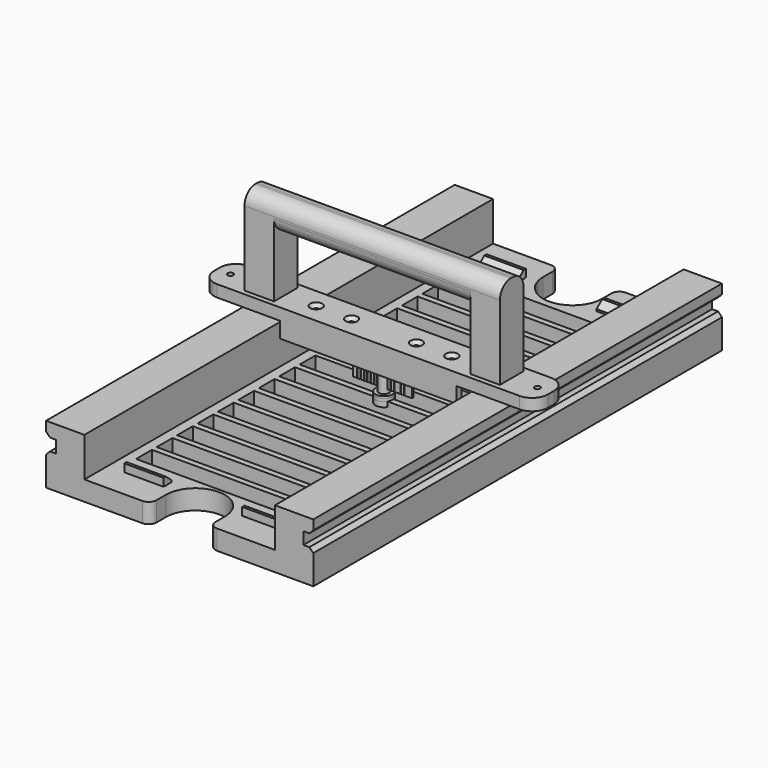
from build123d import *

# Parameters (mm, degrees)
SKETCH_W             = 87
SKETCH_H             = 10.1
SKETCH_H_2           = 9.75
SKETCH_H_3           = 10
PAD_DEPTH            = 10
PAD001_DEPTH         = 130
CHAMFER_SIZE         = 2
PAD003_DEPTH         = 20
FILLET002_R          = 4
PAD002_DEPTH         = 10
FILLET001_R          = 8
SKETCH005_R          = 1.435
POCKET001_DEPTH      = 0.001
POCKET001_DEPTH_BACK = 29.501
SKETCH008_W          = 90
SKETCH008_H          = 3
PAD005_DEPTH         = 8
HOLE_D               = 2.7
HOLE_DEPTH           = 25
HOLE_CSINK_D         = 6.1
HOLE_CSINK_ANGLE     = 90
HOLE001_D            = 2.7
HOLE001_DEPTH        = 25
HOLE001_CSINK_D      = 6.1
HOLE001_CSINK_ANGLE  = 90
SKETCH006_R          = 4.3
SKETCH006_R_2        = 1.5
PAD004_DEPTH         = 2.5
PAD006_DEPTH         = 7.5
FILLET_R             = 7
SKETCH011_R          = 1.45
POCKET002_DEPTH      = 50
SKETCH014_W          = 30
SKETCH014_H          = 12
SKETCH014_R          = 1.35
PAD007_DEPTH         = 8
PAD008_DEPTH         = 1


with BuildPart() as jig:
    # Sketch → Pad (new body)
    with BuildSketch(Plane.XY):
        with BuildLine():
            Line((-68, 130), (-68, -130))
            Line((-68, -130), (-15, -130))
            Line((-15, -130), (-15, -120))
            ThreePointArc((15, -120), (0, -105), (-15, -120))
            Line((15, -130), (15, -120))
            Line((15, -130), (68, -130))
            Line((68, -130), (68, 130))
            Line((68, 130), (15, 130))
            Line((15, 130), (15, 120))
            ThreePointArc((-15, 120), (0, 105), (15, 120))
            Line((-15, 130), (-15, 120))
            Line((-15, 130), (-68, 130))
        make_face()
        with Locations((0, -98.3)):
            Rectangle(SKETCH_W, SKETCH_H, mode=Mode.SUBTRACT)
        with Locations((0, 96.625)):
            Rectangle(SKETCH_W, SKETCH_H_2, mode=Mode.SUBTRACT)
        with Locations((0, 83.75)):
            Rectangle(SKETCH_W, SKETCH_H_3, mode=Mode.SUBTRACT)
        with Locations((0, 70.75)):
            Rectangle(SKETCH_W, SKETCH_H_3, mode=Mode.SUBTRACT)
        with Locations((0, 57.75)):
            Rectangle(SKETCH_W, SKETCH_H_3, mode=Mode.SUBTRACT)
        with Locations((0, 44.75)):
            Rectangle(SKETCH_W, SKETCH_H_3, mode=Mode.SUBTRACT)
        with Locations((0, 31.75)):
            Rectangle(SKETCH_W, SKETCH_H_3, mode=Mode.SUBTRACT)
        with Locations((0, 18.75)):
            Rectangle(SKETCH_W, SKETCH_H_3, mode=Mode.SUBTRACT)
        with Locations((0, 5.75)):
            Rectangle(SKETCH_W, SKETCH_H_3, mode=Mode.SUBTRACT)
        with Locations((0, -7.25)):
            Rectangle(SKETCH_W, SKETCH_H_3, mode=Mode.SUBTRACT)
        with Locations((0, -20.25)):
            Rectangle(SKETCH_W, SKETCH_H_3, mode=Mode.SUBTRACT)
        with Locations((0, -33.25)):
            Rectangle(SKETCH_W, SKETCH_H_3, mode=Mode.SUBTRACT)
        with Locations((0, -46.25)):
            Rectangle(SKETCH_W, SKETCH_H_3, mode=Mode.SUBTRACT)
        with Locations((0, -59.25)):
            Rectangle(SKETCH_W, SKETCH_H_3, mode=Mode.SUBTRACT)
        with Locations((0, -72.25)):
            Rectangle(SKETCH_W, SKETCH_H_3, mode=Mode.SUBTRACT)
        with Locations((0, -85.25)):
            Rectangle(SKETCH_W, SKETCH_H_3, mode=Mode.SUBTRACT)
    extrude(amount=-PAD_DEPTH)

    # Sketch001 → Pad001 (join, symmetric)
    with BuildSketch(Plane.XZ):
        Polygon((-68, 0), (-48.5, 0), (-48.5, 20), (-68, 20), (-68, 13.1), (-63, 13.1), (-63, 6.9), (-68, 6.9), align=None)
    pad001 = extrude(amount=PAD001_DEPTH, both=True)

    # Mirrored: Pad001 across Sketch001 V_Axis
    add(pad001.mirror(Plane(origin=(0, 0, 0), x_dir=(0, -1, 0), z_dir=(1, 0, 0))))

    # Chamfer
    chamfer_edges = [jig.edges().sort_by_distance(p)[0] for p in [
        (-68, 0, 13.1),
        (-68, 0, 6.9),
        (68, 0, 6.9),
        (68, 0, 13.1),
    ]]
    chamfer(chamfer_edges, length=CHAMFER_SIZE)

    # Sketch003 (on DatumPlane) → Pad003 (join)
    with BuildSketch(Plane.YZ.offset(-20)):
        Polygon((-115.25, 0), (-115.25, 4), (-113.825261, 4), (-110.25, 1), (-110.25, 0), align=None)
        Polygon((115.25, 0), (115.25, 4), (113.825261, 4), (110.25, 1), (110.25, 0), align=None)
    pad003 = extrude(amount=-PAD003_DEPTH)

    # Mirrored001: Pad003 across YZ
    add(pad003.mirror(Plane.YZ))

    # Fillet002
    fillet002_edges = [jig.edges().sort_by_distance(p)[0] for p in [
        (-15, -130, -5),
        (15, -130, -5),
        (-15, 130, -5),
        (15, 130, -5),
    ]]
    fillet(fillet002_edges, radius=FILLET002_R)


with BuildPart() as handle_sheet:
    # Sketch002 → Pad002 (new body, symmetric)
    with BuildSketch(Plane.XZ):
        Polygon((-85, 23.5), (85, 23.5), (85, 29.5), (65, 29.5), (50, 29.5), (-50, 29.5), (-65, 29.5), (-85, 29.5), align=None)
    extrude(amount=PAD002_DEPTH, both=True)

    # Fillet001
    fillet001_edges = [handle_sheet.edges().sort_by_distance(p)[0] for p in [
        (-85, -10, 26.5),
        (85, -10, 26.5),
        (85, 10, 26.5),
        (-85, 10, 26.5),
    ]]
    fillet(fillet001_edges, radius=FILLET001_R)

    # Sketch005 → Pocket001 (cut, two sides)
    with BuildSketch(Plane.XY) as pocket001_sk:
        with Locations((78.09, 0)):
            Circle(SKETCH005_R)
        with Locations((-78.09, 0)):
            Circle(SKETCH005_R)
    extrude(amount=-POCKET001_DEPTH, mode=Mode.SUBTRACT)
    extrude(pocket001_sk.sketch, amount=POCKET001_DEPTH_BACK, mode=Mode.SUBTRACT)

    # Sketch008 (on DatumPlane) → Pad005 (join)
    with BuildSketch(Plane.XY.offset(23.5)):
        with Locations((0, 8.5)):
            Rectangle(SKETCH008_W, SKETCH008_H)
        with Locations((0, -8.5)):
            Rectangle(SKETCH008_W, SKETCH008_H)
    extrude(amount=-PAD005_DEPTH)

    # Hole
    with Locations(Plane(origin=(0, 0, 23.5), x_dir=(1, 0, 0), z_dir=(0, 0, -1))):
        with Locations((-57.5, 0), (57.5, 0)):
            CounterSinkHole(HOLE_D / 2, HOLE_CSINK_D / 2, depth=HOLE_DEPTH, counter_sink_angle=HOLE_CSINK_ANGLE)

    # Hole001
    with Locations(Plane.XY.offset(29.5)):
        with Locations((34.5, 0), (16.5, 0), (-34.5, 0), (-16.5, 0)):
            CounterSinkHole(HOLE001_D / 2, HOLE001_CSINK_D / 2, depth=HOLE001_DEPTH, counter_sink_angle=HOLE001_CSINK_ANGLE)


with BuildPart() as spacer:
    # Sketch006 → Pad004 (new body, symmetric)
    with BuildSketch(Plane.XY):
        Circle(SKETCH006_R)
        Circle(SKETCH006_R_2, mode=Mode.SUBTRACT)
    extrude(amount=PAD004_DEPTH, both=True)


with BuildPart() as body:
    # Sketch007 → Revolution (revolve)
    with BuildSketch(Plane.XZ):
        Polygon((1.5, 0), (4.3, 0), (4.3, 1.5), (2.55, 1.5), (2.55, 12.56), (1.5, 12.56), align=None)
    revolve(axis=Axis((0, 0, 0), (0, 0, 1)))


with BuildPart() as handle:
    # Sketch010 → Pad006 (new body, symmetric)
    with BuildSketch(Plane.XZ):
        Polygon((-65, 74.5), (65, 74.5), (65, 29.5), (50, 29.5), (50, 59.5), (-50, 59.5), (-50, 29.5), (-65, 29.5), align=None)
    extrude(amount=PAD006_DEPTH, both=True)

    # Fillet
    fillet_edges = [handle.edges().sort_by_distance(p)[0] for p in [
        (0, 7.5, 74.5),
        (0, -7.5, 74.5),
        (0, -7.5, 59.5),
        (0, 7.5, 59.5),
    ]]
    fillet(fillet_edges, radius=FILLET_R)

    # Sketch011 → Pocket002 (cut)
    with BuildSketch(Plane.XY):
        with Locations((-57.5, 0)):
            Circle(SKETCH011_R)
        with Locations((57.5, 0)):
            Circle(SKETCH011_R)
    extrude(amount=POCKET002_DEPTH, mode=Mode.SUBTRACT)


with BuildPart() as comb:
    # Sketch014 (on CopyDatumPlane) → Pad007 (new body)
    with BuildSketch(Plane.XY.offset(23.5)):
        with Locations((0, 6)):
            Rectangle(SKETCH014_W, SKETCH014_H)
        with Locations((-9, 7)):
            Circle(SKETCH014_R, mode=Mode.SUBTRACT)
        with Locations((9, 7)):
            Circle(SKETCH014_R, mode=Mode.SUBTRACT)
    extrude(amount=-PAD007_DEPTH)

    # Sketch015 → Pad008 (join)
    with BuildSketch(Plane.XZ):
        Polygon((-15, 23.5), (-15, 4.6), (-12.85, 4.6), (-12.85, 9.6), (-12.65, 9.6), (-12.65, 4.6), (-11.15, 4.6), (-11.15, 9.6), (-10.95, 9.6), (-10.95, 4.6), (-9.45, 4.6), (-9.45, 9.6), (-9.25, 9.6), (-9.25, 4.6), (-7.75, 4.6), (-7.75, 9.6), (-7.55, 9.6), (-7.55, 4.6), (-6.05, 4.6), (-6.05, 9.6), (-5.85, 9.6), (-5.85, 4.6), (-4.35, 4.6), (-4.35, 9.6), (-4.15, 9.6), (-4.15, 4.6), (-2.65, 4.6), (-2.65, 9.6), (-2.45, 9.6), (-2.45, 4.6), (-0.95, 4.6), (-0.95, 9.6), (-0.75, 9.6), (-0.75, 4.6), (0, 4.6), (0, 23.5), align=None)
    pad008 = extrude(amount=PAD008_DEPTH)

    # Mirrored002: Pad008 across Sketch015 V_Axis
    add(pad008.mirror(Plane(origin=(0, 0, 0), x_dir=(0, -1, 0), z_dir=(1, 0, 0))))


solid = Compound([jig.part, handle_sheet.part, spacer.part, body.part, handle.part, comb.part])
